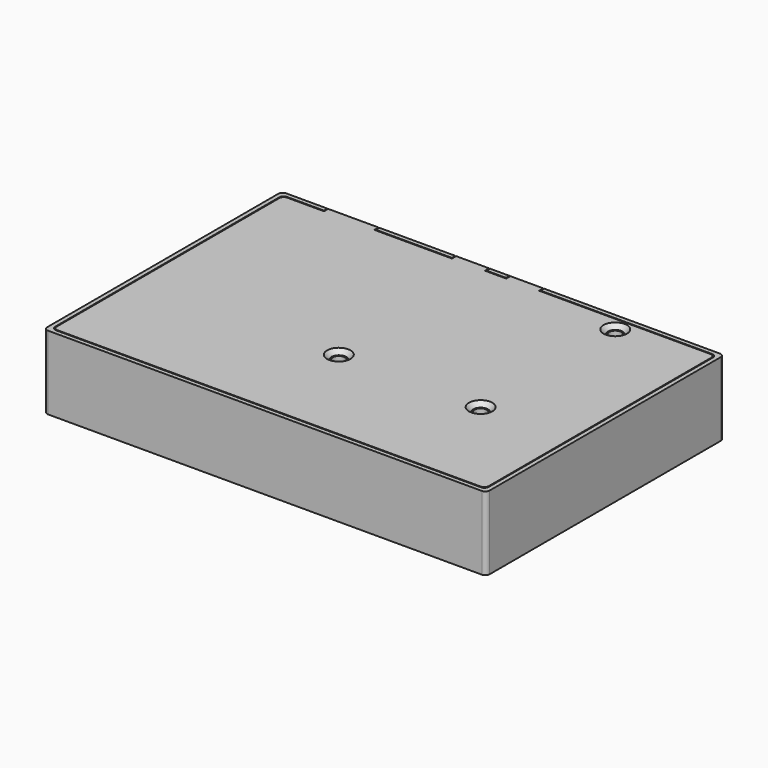
from build123d import *

# Parameters (mm, degrees)
SKETCH_W            = 102
SKETCH_H            = 68.6
PAD_DEPTH           = 17
SKETCH001_W         = 100
SKETCH001_H         = 66.6
POCKET_DEPTH        = 16
SKETCH002_W         = 1
SKETCH002_H         = 43.6
SKETCH002_W_2       = 29.9
SKETCH002_H_2       = 30.1
SKETCH002_W_3       = 27.9
SKETCH002_H_3       = 28.1
PAD001_DEPTH        = 3.2
SKETCH003_W         = 24
SKETCH003_H         = 13
POCKET001_DEPTH     = 1.001
PAD002_DEPTH        = 91
PAD003_DEPTH        = 1
LINEARPATTERN_COUNT = 3
LINEARPATTERN_PITCH = 45.5
SKETCH006_W         = 12
SKETCH006_H         = 6.5
SKETCH006_W_2       = 8
SKETCH006_H_2       = 6
POCKET002_DEPTH     = 1.001
SKETCH007_R         = 2.4
SKETCH007_R_2       = 1.4
PAD004_DEPTH        = 15
FILLET_R            = 1
FILLET001_R         = 0.999
FILLET003_R         = 2
SKETCH009_W         = 99.6
SKETCH009_H         = 66.2
PAD006_DEPTH        = 1
HOLE_D              = 3.4
HOLE_CSINK_D        = 5.4
HOLE_CSINK_ANGLE    = 90
PAD007_DEPTH        = 1.2
FILLET004_R         = 1


with BuildPart() as case_base:
    # Sketch → Pad (new body)
    with BuildSketch(Plane.XY):
        with Locations((50, 33.3)):
            Rectangle(SKETCH_W, SKETCH_H)
    extrude(amount=PAD_DEPTH)

    # Sketch001 (on Face6 of Pad) → Pocket (cut)
    with BuildSketch(Plane.XY.offset(17)):
        with Locations((50, 33.3)):
            Rectangle(SKETCH001_W, SKETCH001_H)
    extrude(amount=-POCKET_DEPTH, mode=Mode.SUBTRACT)

    # Sketch002 (on Face11 of Pocket) → Pad001 (join)
    with BuildSketch(Plane.XY.offset(1)):
        with Locations((81.3, 44.8)):
            Rectangle(SKETCH002_W, SKETCH002_H)
        with Locations((63.05, 39.55)):
            Rectangle(SKETCH002_W_2, SKETCH002_H_2)
        with Locations((63.05, 39.55)):
            Rectangle(SKETCH002_W_3, SKETCH002_H_3, mode=Mode.SUBTRACT)
    extrude(amount=PAD001_DEPTH)

    # Sketch003 (on Face11 of Pocket) → Pocket001 (cut, through all)
    with BuildSketch(Plane.XY.offset(1)):
        with Locations((63.05, 42.7)):
            Rectangle(SKETCH003_W, SKETCH003_H)
        Polygon((11.1, 44.2), (11.1, 54.3), (21.2, 54.3), (21.2, 44.2), (31.3, 44.2), (31.3, 34.1), (21.2, 34.1), (21.2, 24), (11.1, 24), (11.1, 34.1), (1, 34.1), (1, 44.2), align=None)
    extrude(amount=-POCKET001_DEPTH, mode=Mode.SUBTRACT)

    # Sketch004 (on DatumPlane) → Pad002 (join)
    with BuildSketch(Plane.YZ.offset(4.5)):
        with BuildLine():
            ThreePointArc((0, 6.5), (4.980299, 1.024609), (10.901786, 5.465248))
            ThreePointArc((11.098214, 5.465248), (11, 5.546435), (10.901786, 5.465248))
            ThreePointArc((11.098214, 5.465248), (17.019701, 1.024609), (22, 6.5))
            Line((22, 6.5), (22, 7.5))
            Line((22, 7.5), (23, 7.5))
            Line((23, 7.5), (23, 0.2))
            Line((23, 0.2), (0, 0.2))
            Line((0, 0.2), (0, 6.5))
        make_face()
    extrude(amount=PAD002_DEPTH)

    # Sketch005 (on DatumPlane) → Pad003 (join)
    with BuildSketch(Plane.YZ.offset(4.5)):
        with BuildLine():
            Line((0, 0.2), (0, 7.5))
            Line((3.5, 7.5), (0, 7.5))
            Line((3.5, 7.5), (3.5, 5.5))
            ThreePointArc((3.5, 5.5), (5.5, 3.5), (7.5, 5.5))
            Line((7.5, 7.5), (7.5, 5.5))
            Line((7.5, 7.5), (14.5, 7.5))
            Line((14.5, 7.5), (14.5, 5.5))
            ThreePointArc((14.5, 5.5), (16.5, 3.5), (18.5, 5.5))
            Line((18.5, 7.5), (18.5, 5.5))
            Line((18.5, 7.5), (22, 7.5))
            Line((22, 7.5), (23, 7.5))
            Line((23, 0.2), (23, 7.5))
            Line((0, 0.2), (23, 0.2))
        make_face()
    pad003 = extrude(amount=PAD003_DEPTH)

    # LinearPattern: Pad003 ×3
    with Locations(*[(i * LINEARPATTERN_PITCH, 0, 0) for i in range(1, LINEARPATTERN_COUNT)]):
        add(pad003)

    # Sketch006 (on Face9 of Pocket) → Pocket002 (cut, through all)
    with BuildSketch(Plane.XZ.offset(-66.6)):
        Polygon((86.9, 8.2), (94.9, 8.2), (94.9, 5), (94.5, 5), (94.5, 4), (87.3, 4), (87.3, 5), (86.9, 5), align=None)
        with Locations((15.5, 13.75)):
            Rectangle(SKETCH006_W, SKETCH006_H)
        with Locations((43, 14)):
            Rectangle(SKETCH006_W_2, SKETCH006_H_2)
        with Locations((55.5, 14)):
            Rectangle(SKETCH006_W_2, SKETCH006_H_2)
    extrude(amount=-POCKET002_DEPTH, mode=Mode.SUBTRACT)

    # Sketch007 (on Face11 of Pocket) → Pad004 (join)
    with BuildSketch(Plane.XY.offset(1)):
        with Locations((79.4, 24.4)):
            Circle(SKETCH007_R)
        with Locations((79.4, 24.4)):
            Circle(SKETCH007_R_2, mode=Mode.SUBTRACT)
        with Locations((46.7, 24.4)):
            Circle(SKETCH007_R)
        with Locations((46.7, 24.4)):
            Circle(SKETCH007_R_2, mode=Mode.SUBTRACT)
        with BuildLine():
            ThreePointArc((77, 63.200013), (79.399993, 60.800013), (81.8, 63.2))
            Line((81.8, 66.6), (81.8, 63.2))
            Line((77, 66.6), (81.8, 66.6))
            Line((77, 63.200013), (77, 66.6))
        make_face()
        with Locations((79.4, 63.200013)):
            Circle(SKETCH007_R_2, mode=Mode.SUBTRACT)
    extrude(amount=PAD004_DEPTH)

    # Fillet
    fillet_edges = [case_base.edges().sort_by_distance(p)[0] for p in [
        (77, 66.6, 8.5),
        (80.8, 61.250654, 2.6),
        (80.8, 26.349359, 2.6),
        (77.450641, 23, 4.25),
        (44.750641, 23, 4.25),
        (0, 66.6, 9),
        (0, 0, 9),
        (100, 0, 9),
        (100, 66.6, 9),
        (81.8, 66.6, 10.1),
        (101, 67.6, 8.5),
        (101, -1, 8.5),
        (-1, -1, 8.5),
        (4.5, 0, 3.75),
        (96.5, 0, 4.25),
        (81.8, 23, 2.6),
        (-1, 67.6, 8.5),
        (78, 54.6, 2.6),
        (48.1, 54.6, 2.6),
        (78, 26.349359, 2.6),
        (48.1, 26.349359, 2.6),
    ]]
    fillet(fillet_edges, radius=FILLET_R)

    # Fillet001
    fillet001_edges = [case_base.edges().sort_by_distance(p)[0] for p in [
        (38.5, 66.6, 1),
    ]]
    fillet(fillet001_edges, radius=FILLET001_R)

    # Fillet003
    fillet003_edges = [case_base.edges().sort_by_distance(p)[0] for p in [
        (11.1, 34.1, 0.5),
        (11.1, 44.2, 0.5),
        (21.2, 44.2, 0.5),
        (21.2, 34.1, 0.5),
    ]]
    fillet(fillet003_edges, radius=FILLET003_R)


with BuildPart() as case_top:
    # Sketch009 → Pad006 (new body)
    with BuildSketch(Plane.XY):
        with Locations((50, 33.3)):
            Rectangle(SKETCH009_W, SKETCH009_H)
    extrude(amount=-PAD006_DEPTH)

    # Hole (through all)
    with Locations(Plane.XY):
        with Locations((79.4, 63.2), (79.4, 24.4), (46.7, 24.4)):
            CounterSinkHole(HOLE_D / 2, HOLE_CSINK_D / 2, counter_sink_angle=HOLE_CSINK_ANGLE)

    # Sketch011 (on Face6 of Hole) → Pad007 (join)
    with BuildSketch(Plane(origin=(0, 66.4, 0), x_dir=(-1, 0, 0), z_dir=(0, 1, 0))):
        Polygon((-21.3, 0), (-21.3, -1.3), (-20.5, -0.8), (-10.5, -0.8), (-9.7, -1.3), (-9.7, 0), align=None)
        Polygon((-39.2, -1.3), (-39.2, 0), (-46.8, 0), (-46.8, -1.3), (-46.3, -0.8), (-39.7, -0.8), align=None)
        Polygon((-51.7, -1.3), (-51.7, 0), (-59.3, 0), (-59.3, -1.3), (-58.8, -0.8), (-52.2, -0.8), align=None)
    extrude(amount=PAD007_DEPTH)

    # Fillet004
    fillet004_edges = [case_top.edges().sort_by_distance(p)[0] for p in [
        (0.2, 0.2, -0.5),
        (99.8, 0.2, -0.5),
        (99.8, 66.4, -0.5),
        (0.2, 66.4, -0.5),
    ]]
    fillet(fillet004_edges, radius=FILLET004_R)


with BuildPart() as case_top_1:
    # Body001 placement: moved
    add(case_top.part.moved(Location((0, 0, 17))))


solid = Compound([case_base.part, case_top_1.part])
